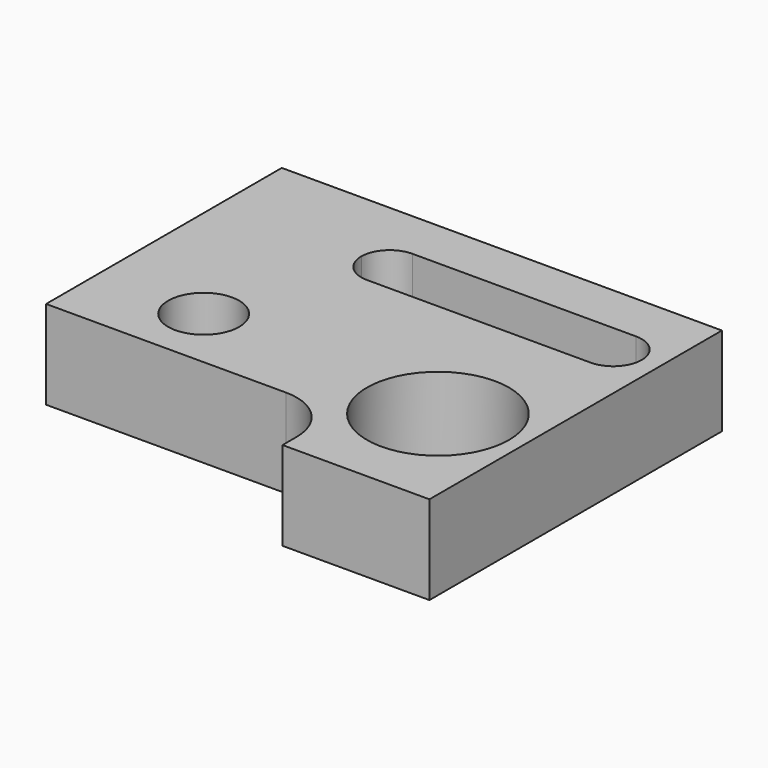
from build123d import *

# Parameters (mm, degrees)
F0_R     = 10
F0_R_2   = 20
F1_DEPTH = 25


with BuildPart() as f1:
    # F0 (on Top) → F1 (new body)
    with BuildSketch(Plane.XY):
        with BuildLine():
            Line((25.872263, -67.918979), (67.258382, -67.918979))
            Line((67.258382, -67.918979), (67.258382, 5.081021))
            Line((67.258382, 5.081021), (67.258382, 35.081021))
            Line((67.258382, 35.081021), (43.258382, 35.081021))
            Line((43.258382, 35.081021), (-56.741618, 35.081021))
            Line((-56.741618, 35.081021), (-56.741618, -47.918979))
            Line((-56.741618, -47.918979), (10.872263, -47.918979))
            ThreePointArc((10.872263, -47.918979), (21.478865, -52.312377), (25.872263, -62.918979))
            Line((25.872263, -62.918979), (25.872263, -67.918979))
        make_face()
        with Locations((-26.741618, -29.918979)):
            Circle(F0_R, mode=Mode.SUBTRACT)
        with Locations((43.258382, -34.918979)):
            Circle(F0_R_2, mode=Mode.SUBTRACT)
        with BuildLine():
            Line((54.258382, 5.081021), (-8.741618, 5.081021))
            ThreePointArc((-8.741618, 5.081021), (-14.398472, 7.424167), (-16.741618, 13.081021))
            ThreePointArc((-16.741618, 13.081021), (-14.398472, 18.737875), (-8.741618, 21.081021))
            Line((-8.741618, 21.081021), (54.258382, 21.081021))
            ThreePointArc((54.258382, 21.081021), (59.915237, 18.737875), (62.258382, 13.081021))
            ThreePointArc((62.258382, 13.081021), (59.915237, 7.424167), (54.258382, 5.081021))
        make_face(mode=Mode.SUBTRACT)
    extrude(amount=F1_DEPTH)


solid = f1.part
